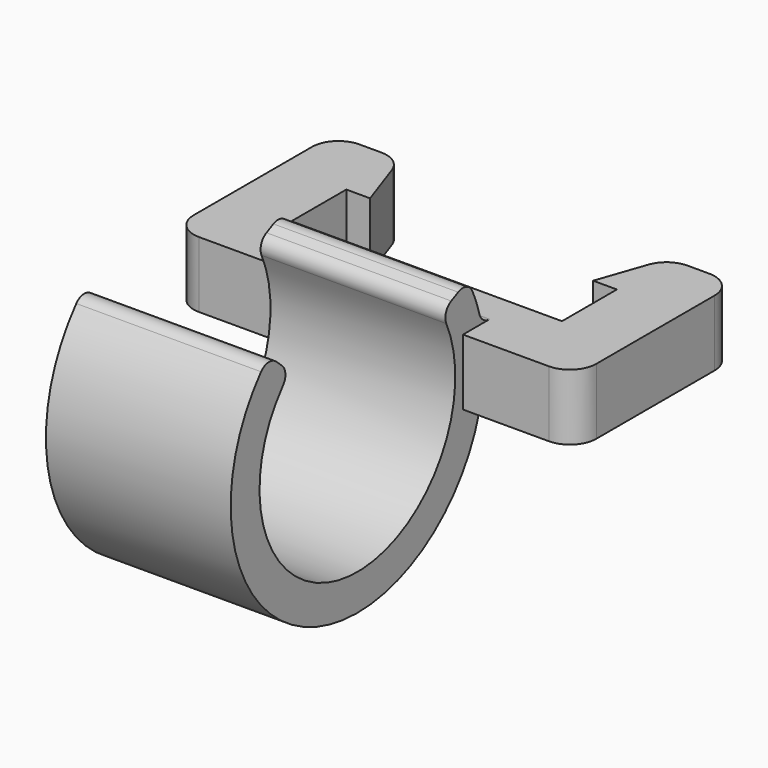
from build123d import *

# Parameters (mm, degrees)
F1_DEPTH = 5
F5_DEPTH = 7
F6_DEPTH = 7


with BuildPart() as f1:
    # F0 (on Top) → F1 (new body)
    with BuildSketch(Plane.XY):
        with BuildLine():
            Line((20.5, 0), (0, 0))
            Line((0, 0), (0, 5.2))
            Line((0, 5.2), (1.8, 5.2))
            Line((1.8, 5.2), (0.502887, 8.942781))
            ThreePointArc((0.502887, 8.942781), (-0.232808, 9.856134), (-1.354066, 10.2))
            Line((-1.354066, 10.2), (-3, 10.2))
            ThreePointArc((-3, 10.2), (-4.414214, 9.614214), (-5, 8.2))
            Line((-5, 8.2), (-5, -3))
            ThreePointArc((-5, -3), (-4.414214, -4.414214), (-3, -5))
            Line((-3, -5), (23.5, -5))
            ThreePointArc((23.5, -5), (24.914214, -4.414214), (25.5, -3))
            Line((25.5, -3), (25.5, 0))
            Line((25.5, 0), (25.5, 8.2))
            ThreePointArc((25.5, 8.2), (24.914214, 9.614214), (23.5, 10.2))
            Line((23.5, 10.2), (21.854066, 10.2))
            ThreePointArc((21.854066, 10.2), (20.732808, 9.856134), (19.997113, 8.942781))
            Line((19.997113, 8.942781), (18.7, 5.2))
            Line((18.7, 5.2), (20.5, 5.2))
            Line((20.5, 5.2), (20.5, 0))
        make_face()
    extrude(amount=F1_DEPTH)

    # F4 (on offset) → F5 (join)
    with BuildSketch(Plane.YZ.offset(10)):
        with BuildLine():
            ThreePointArc((-22.701302, 10.393598), (-23.433626, 10.642174), (-24.124238, 10.294118))
            ThreePointArc((-24.124238, 10.294118), (-20.645043, -8.08931), (-3.443092, -0.730769))
            ThreePointArc((-3.443092, -0.730769), (-3.084486, -0.203372), (-2.480016, 0))
            Line((-2.480016, 0), (0, 0))
            Line((0, 0), (0, 5))
            Line((0, 5), (-2.480016, 5))
            ThreePointArc((-2.480016, 5), (-3.084486, 5.203372), (-3.443092, 5.730769))
            ThreePointArc((-3.443092, 5.730769), (-3.739036, 6.646167), (-4.107359, 7.534916))
            ThreePointArc((-4.107359, 7.534916), (-4.680832, 8.057825), (-5.455624, 8.01307))
            Line((-5.455624, 8.01307), (-6.111157, 7.691379))
            ThreePointArc((-6.111157, 7.691379), (-6.612821, 7.128674), (-6.579024, 6.375572))
            ThreePointArc((-6.579024, 6.375572), (-16.267771, -6.6829), (-22.055883, 8.512273))
            ThreePointArc((-22.055883, 8.512273), (-21.819513, 9.231201), (-22.154452, 9.909835))
            Line((-22.154452, 9.909835), (-22.701302, 10.393598))
        make_face()
    extrude(amount=-F5_DEPTH)

    # F4 (on offset) → F6 (join)
    with BuildSketch(Plane.YZ.offset(10)):
        with BuildLine():
            ThreePointArc((-22.701302, 10.393598), (-23.433626, 10.642174), (-24.124238, 10.294118))
            ThreePointArc((-24.124238, 10.294118), (-20.645043, -8.08931), (-3.443092, -0.730769))
            ThreePointArc((-3.443092, -0.730769), (-3.084486, -0.203372), (-2.480016, 0))
            Line((-2.480016, 0), (0, 0))
            Line((0, 0), (0, 5))
            Line((0, 5), (-2.480016, 5))
            ThreePointArc((-2.480016, 5), (-3.084486, 5.203372), (-3.443092, 5.730769))
            ThreePointArc((-3.443092, 5.730769), (-3.739036, 6.646167), (-4.107359, 7.534916))
            ThreePointArc((-4.107359, 7.534916), (-4.680832, 8.057825), (-5.455624, 8.01307))
            Line((-5.455624, 8.01307), (-6.111157, 7.691379))
            ThreePointArc((-6.111157, 7.691379), (-6.612821, 7.128674), (-6.579024, 6.375572))
            ThreePointArc((-6.579024, 6.375572), (-16.267771, -6.6829), (-22.055883, 8.512273))
            ThreePointArc((-22.055883, 8.512273), (-21.819513, 9.231201), (-22.154452, 9.909835))
            Line((-22.154452, 9.909835), (-22.701302, 10.393598))
        make_face()
    extrude(amount=F6_DEPTH)


solid = f1.part
